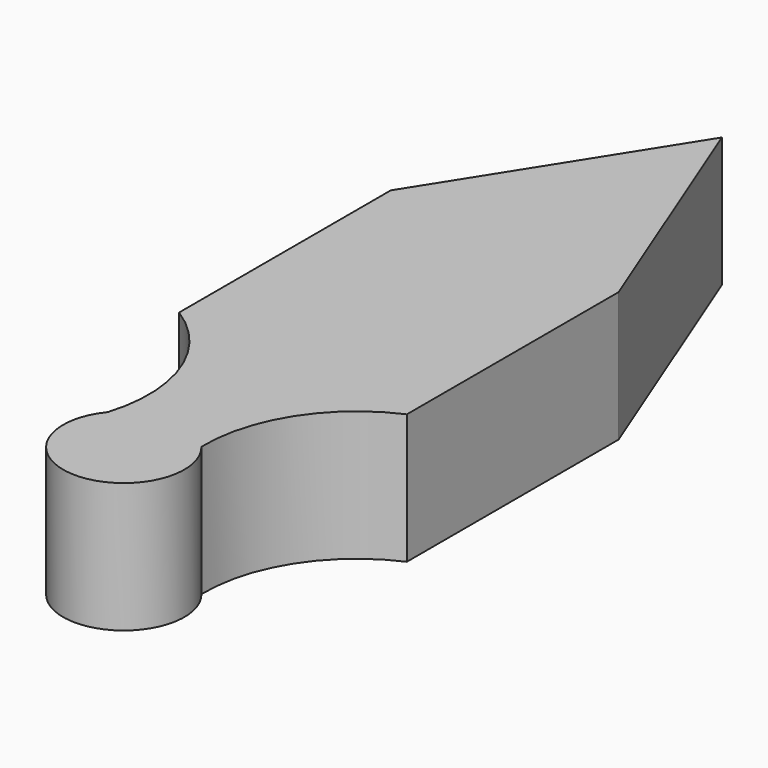
from build123d import *

# Parameters (mm, degrees)
F1_DEPTH = 8.636


with BuildPart() as f1:
    # F0 (on Top) → F1 (new body)
    with BuildSketch(Plane.XY):
        with BuildLine():
            Line((-41.681834, 44.058059), (-51.39668, 28.660947))
            Line((-51.39668, 28.660947), (-51.39668, 11.064244))
            ThreePointArc((-51.39668, 11.064244), (-47.461852, 6.230486), (-47.291137, 0))
            ThreePointArc((-47.291137, 0), (-44.175053, -6.599668), (-41.058969, 0))
            ThreePointArc((-41.058969, 0), (-39.472138, 5.673563), (-35.00355, 9.512714))
            Line((-35.00355, 9.512714), (-35.00355, 27.114914))
            Line((-35.00355, 27.114914), (-41.681834, 44.058059))
        make_face()
    extrude(amount=F1_DEPTH)


solid = f1.part
